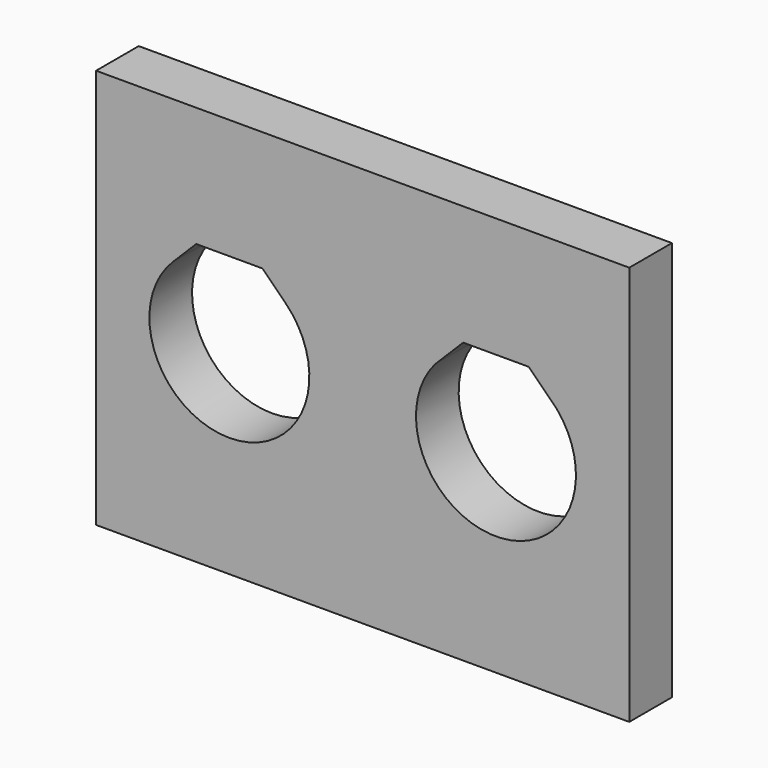
from build123d import *

# Parameters (mm, degrees)
SKETCH_W     = 100
SKETCH_H     = 75
PAD_DEPTH    = 10
POCKET_DEPTH = 10.001


with BuildPart() as part:
    # Sketch → Pad (new body)
    with BuildSketch(Plane.XZ):
        Rectangle(SKETCH_W, SKETCH_H)
    extrude(amount=PAD_DEPTH)

    # Sketch001 → Pocket (cut, through all)
    with BuildSketch(Plane.XZ.offset(10)):
        with BuildLine():
            ThreePointArc((-35.606608, 10.606596), (-25.000001, -15), (-14.393391, 10.606594))
            Line((-18.786797, 15), (-14.393391, 10.606594))
            Line((-31.213203, 15), (-18.786797, 15))
            Line((-35.606608, 10.606596), (-31.213203, 15))
        make_face()
        with BuildLine():
            ThreePointArc((13.577536, 9.722516), (24.984095, -14.999992), (36.443057, 9.69827))
            Line((31.141327, 15), (36.443057, 9.69827))
            Line((18.85502, 15), (31.141327, 15))
            Line((13.577536, 9.722516), (18.85502, 15))
        make_face()
    extrude(amount=-POCKET_DEPTH, mode=Mode.SUBTRACT)


solid = part.part
